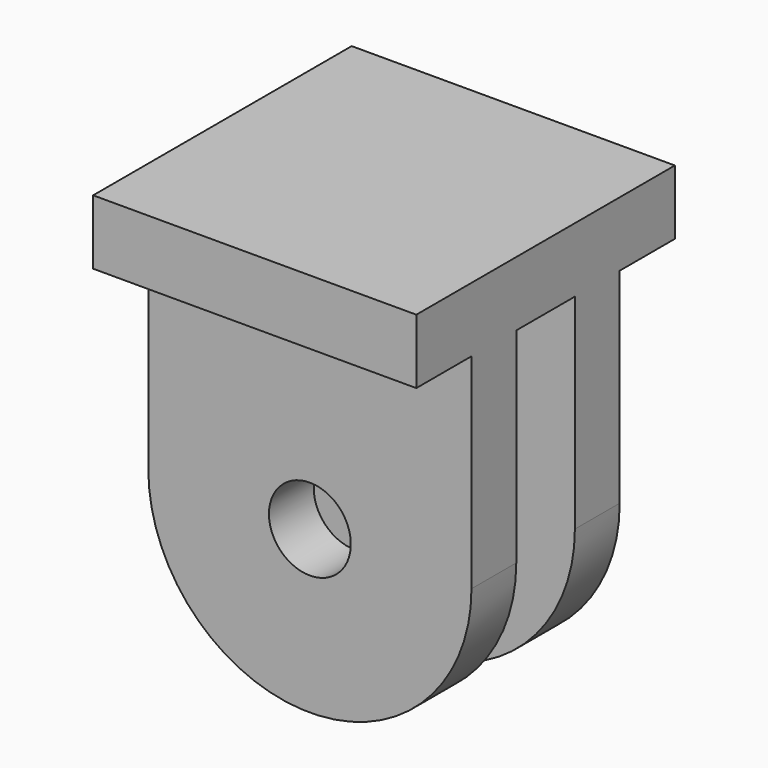
from build123d import *

# Parameters (mm, degrees)
CYLINDER004_R        = 1.9
CYLINDER004_DEPTH    = 15
BOX005_W             = 15
BOX005_H             = 3.4
BOX005_DEPTH         = 17
ARRAY001_Y_COUNT     = 3
ARRAY001_Y_PITCH     = 6
CYLINDER003_R        = 7.5
CYLINDER003_DEPTH    = 15
BOX004_W             = 15
BOX004_H             = 15
BOX004_DEPTH         = 12.5
BODY_PLACEMENT_ANGLE = 180


with BuildPart() as side_2_bolt_hole:
    # Cylinder004 → Cylinder004 (new body)
    with BuildSketch(Plane(origin=(0, 7.5, 12.5), x_dir=(1, 0, 0), z_dir=(0, -1, 0))):
        Circle(CYLINDER004_R)
    extrude(amount=CYLINDER004_DEPTH)


with BuildPart() as side_2_extract_fusion:
    # Box005 → Box005 (new body)
    with BuildSketch(Plane(origin=(-7.5, -7.7, 3), x_dir=(1, 0, 0), z_dir=(0, 0, 1))):
        with Locations((7.5, 1.7)):
            Rectangle(BOX005_W, BOX005_H)
    extrude(amount=BOX005_DEPTH)

    # Array001 Y: side 2 extract fusion ×3


with BuildPart() as side_2_extract_fusion_1:
    add(side_2_extract_fusion.part)
    with Locations(*[(0, i * ARRAY001_Y_PITCH, 0) for i in range(1, ARRAY001_Y_COUNT)]):
        add(side_2_extract_fusion.part)

    # Fusion004: union side 2 bolt hole
    add(side_2_bolt_hole.part)


with BuildPart() as outer_cylinder001:
    # Cylinder003 → Cylinder003 (new body)
    with BuildSketch(Plane(origin=(0, 7.5, 12.5), x_dir=(1, 0, 0), z_dir=(0, -1, 0))):
        Circle(CYLINDER003_R)
    extrude(amount=CYLINDER003_DEPTH)


with BuildPart() as side_2_cut_clone:
    # Box004 → Box004 (new body)
    with BuildSketch(Plane(origin=(-7.5, -7.5, 0), x_dir=(1, 0, 0), z_dir=(0, 0, 1))):
        with Locations((7.5, 7.5)):
            Rectangle(BOX004_W, BOX004_H)
    extrude(amount=BOX004_DEPTH)

    # Fusion003: union outer cylinder001
    add(outer_cylinder001.part)

    # Cut001: cut side 2 extract fusion
    add(side_2_extract_fusion_1.part, mode=Mode.SUBTRACT)


with BuildPart() as side_2_cut_clone_1:
    # Body placement: moved
    add(side_2_cut_clone.part.moved(Location((0, 0, 25))).rotate(Axis((0, 0, 25), (0, 1, 0)), BODY_PLACEMENT_ANGLE))


solid = side_2_cut_clone_1.part
